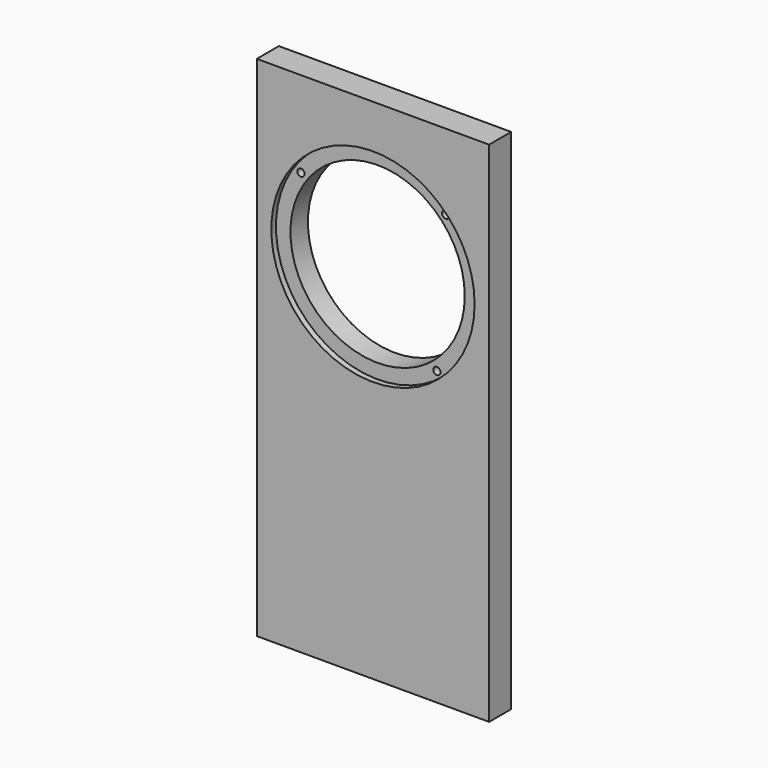
from build123d import *

# Parameters (mm, degrees)
F0_R     = 70
F0_R_2   = 60
F1_DEPTH = 15
F0_W     = 160
F0_H     = 350
F2_DEPTH = 19
F4_D     = 5


with BuildPart() as f1:
    # F0 (on Front) → F1 (new body)
    with BuildSketch(Plane.XZ):
        with Locations((26.691287, 60.099899)):
            Circle(F0_R)
        with Locations((26.691287, 60.099899)):
            Circle(F0_R_2, mode=Mode.SUBTRACT)
    extrude(amount=F1_DEPTH)

    # F0 (on Front) → F2 (join)
    with BuildSketch(Plane.XZ):
        with Locations((26.691287, -14.900101)):
            Rectangle(F0_W, F0_H)
        with Locations((26.691287, 60.099899)):
            Circle(F0_R, mode=Mode.SUBTRACT)
    extrude(amount=F2_DEPTH)

    # F4 (through all)
    with Locations(Plane.XZ.offset(15)):
        with Locations((-26.138766, 98.351955), (73.61643, 105.279788), (67.508727, 8.484681)):
            Hole(F4_D / 2)


solid = f1.part
